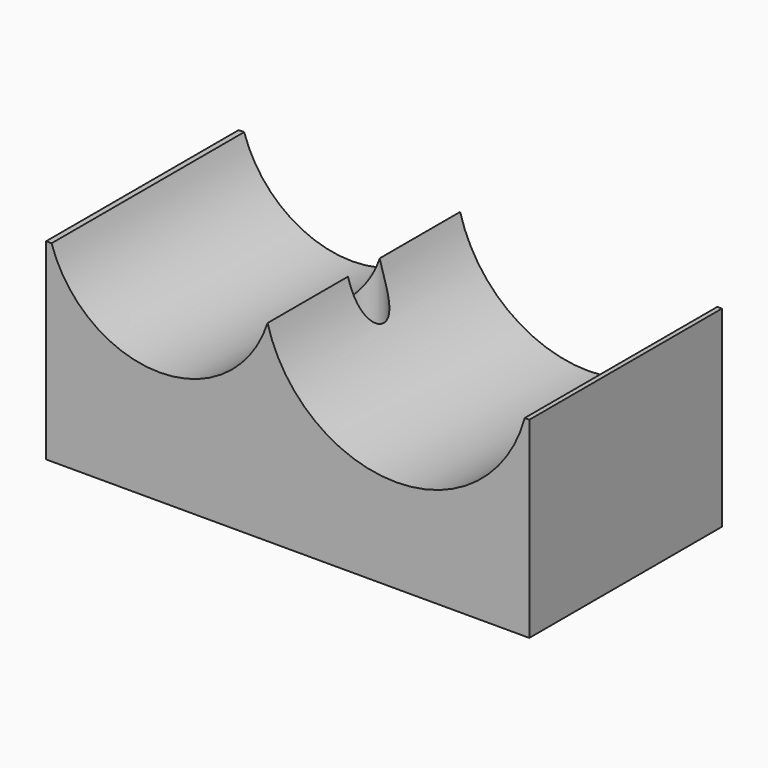
from build123d import *

# Parameters (mm, degrees)
F1_DEPTH = 6.1
F3_DEPTH = 25


with BuildPart() as f1:
    # F0 (on Front) → F1 (new body, symmetric)
    with BuildSketch(Plane.XZ):
        with BuildLine():
            ThreePointArc((-0.013371, -1.766178), (-5.485401, -5.75), (-10.957431, -1.766178))
            Line((-10.957431, -1.766178), (-11.235401, -1.766178))
            Line((-11.235401, -1.766178), (-11.235401, -11.5))
            Line((-11.235401, -11.5), (13.251467, -11.5))
            Line((13.251467, -11.5), (13.251467, -1.766178))
            Line((13.251467, -1.766178), (13.016305, -1.766178))
            ThreePointArc((13.016305, -1.766178), (6.501467, -6.75), (-0.013371, -1.766178))
        make_face()
    extrude(amount=F1_DEPTH, both=True)

    # F2 (on face) → F3 (cut)
    with BuildSketch(Plane(origin=(0, 0, -11.5), x_dir=(1, 0, 0), z_dir=(0, 0, -1))):
        with BuildLine():
            ThreePointArc((0.64533, -0.763904), (0.907009, -0.421112), (1, 0))
            ThreePointArc((1, 0), (0.421933, 0.906627), (-0.643945, 0.765072))
            Line((-0.643945, 0.765072), (0.64533, -0.763904))
        make_face()
        with BuildLine():
            Line((0.64533, -0.763904), (-0.643945, 0.765072))
            ThreePointArc((-0.643945, 0.765072), (-0.764488, -0.644638), (0.64533, -0.763904))
        make_face()
    extrude(amount=-F3_DEPTH, mode=Mode.SUBTRACT)


solid = f1.part
